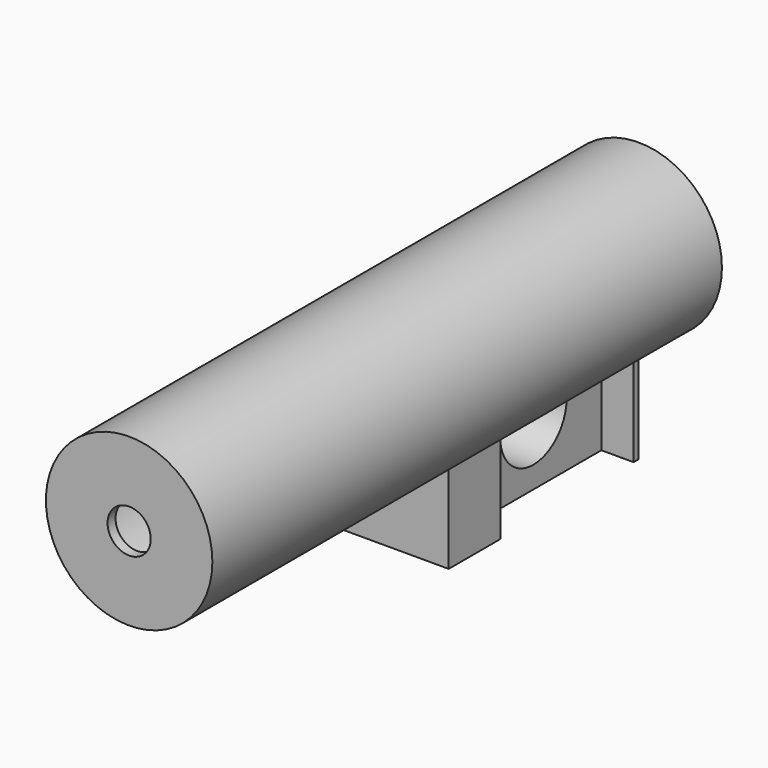
from build123d import *

# Parameters (mm, degrees)
F0_R      = 25
F1_DEPTH  = 200
F4_W      = 35
F4_H      = 60
F5_DEPTH  = 80
F2_R      = 21.25
F6_DEPTH  = 197
F3_W      = 27
F3_H      = 50
F8_DEPTH  = 60
F9_DEPTH  = 8
F10_W     = 47.1464432776
F10_H     = 8.6505031213
F10_W_2   = 35
F12_DEPTH = 83.7927124713
F14_DEPTH = 50
F15_R     = 6.4891960767
F16_DEPTH = 25


with BuildPart() as f1:
    # F0 (on Front) → F1 (new body)
    with BuildSketch(Plane.XZ):
        Circle(F0_R)
    extrude(amount=F1_DEPTH)

    # F4 (on Front) → F5 (join)
    with BuildSketch(Plane.XZ):
        with Locations((-17.5, -28.7917124713)):
            Rectangle(F4_W, F4_H)
    extrude(amount=F5_DEPTH)

    # F2 (on face) → F6 (cut)
    with BuildSketch(Plane(origin=(0, 0, 0), x_dir=(-1, 0, 0), z_dir=(0, 1, 0))):
        Circle(F2_R)
    extrude(amount=-F6_DEPTH, mode=Mode.SUBTRACT)

    # F3 (on Top) → F8 (cut)
    with BuildSketch(Plane.XY):
        with Locations((3.8086780198, -35.5690324024)):
            Rectangle(F3_W, F3_H)
    extrude(amount=-F8_DEPTH, mode=Mode.SUBTRACT)

    # F7 (on face) → F9 (cut)
    with BuildSketch(Plane(origin=(-35, 0, 0), x_dir=(0, -1, 0), z_dir=(-1, 0, 0))):
        with BuildLine():
            ThreePointArc((41.3552170133, -29.25), (46.082189469, -33.5816991961), (47.8314612359, -39.75))
            ThreePointArc((47.8314612359, -39.75), (46.082189469, -45.9183008039), (41.3552170133, -50.25))
            Line((41.3552170133, -50.25), (76.0814612359, -50.25))
            Line((76.0814612359, -50.25), (76.0814612359, -29.25))
            Line((76.0814612359, -29.25), (41.3552170133, -29.25))
        make_face()
        with BuildLine():
            Line((26.0814612359, -50.25), (30.8077054584, -50.25))
            ThreePointArc((30.8077054584, -50.25), (28.1435615229, -48.4132700608), (26.0814612359, -45.9194813396))
            Line((26.0814612359, -45.9194813396), (26.0814612359, -50.25))
        make_face()
        with BuildLine():
            Line((36.0814612359, -29.25), (30.8077054584, -29.25))
            ThreePointArc((30.8077054584, -29.25), (28.1435615229, -31.0867299392), (26.0814612359, -33.5805186604))
            Line((26.0814612359, -33.5805186604), (26.0814612359, -45.9194813396))
            ThreePointArc((26.0814612359, -45.9194813396), (28.1435615229, -48.4132700608), (30.8077054584, -50.25))
            Line((30.8077054584, -50.25), (36.0814612359, -50.25))
            Line((36.0814612359, -50.25), (36.0814612359, -29.25))
        make_face()
        with BuildLine():
            ThreePointArc((26.0814612359, -33.5805186604), (28.1435615229, -31.0867299392), (30.8077054584, -29.25))
            Line((30.8077054584, -29.25), (26.0814612359, -29.25))
            Line((26.0814612359, -29.25), (26.0814612359, -33.5805186604))
        make_face()
    extrude(amount=-F9_DEPTH, mode=Mode.SUBTRACT)

    # F10 (on face) → F12 (cut, through all)
    with BuildSketch(Plane(origin=(0, 0, -58.7917124713), x_dir=(1, 0, 0), z_dir=(0, 0, -1))):
        with Locations((23.5732216388, 4.3252515607)):
            Rectangle(F10_W, F10_H)
        with Locations((-17.5, 4.3252515607)):
            Rectangle(F10_W_2, F10_H)
    extrude(amount=-F12_DEPTH, mode=Mode.SUBTRACT)

    # F13 (on face) → F14 (cut)
    with BuildSketch(Plane(origin=(-35, 0, 0), x_dir=(0, -1, 0), z_dir=(-1, 0, 0))):
        with BuildLine():
            ThreePointArc((23.5814612359, -39.75), (36.0814612359, -52.25), (48.5814612359, -39.75))
            ThreePointArc((48.5814612359, -39.75), (36.0814612359, -27.25), (23.5814612359, -39.75))
        make_face()
    extrude(amount=-F14_DEPTH, mode=Mode.SUBTRACT)

    # F15 (on face) → F16 (cut)
    with BuildSketch(Plane.XZ.offset(200)):
        Circle(F15_R)
    extrude(amount=-F16_DEPTH, mode=Mode.SUBTRACT)


solid = f1.part
